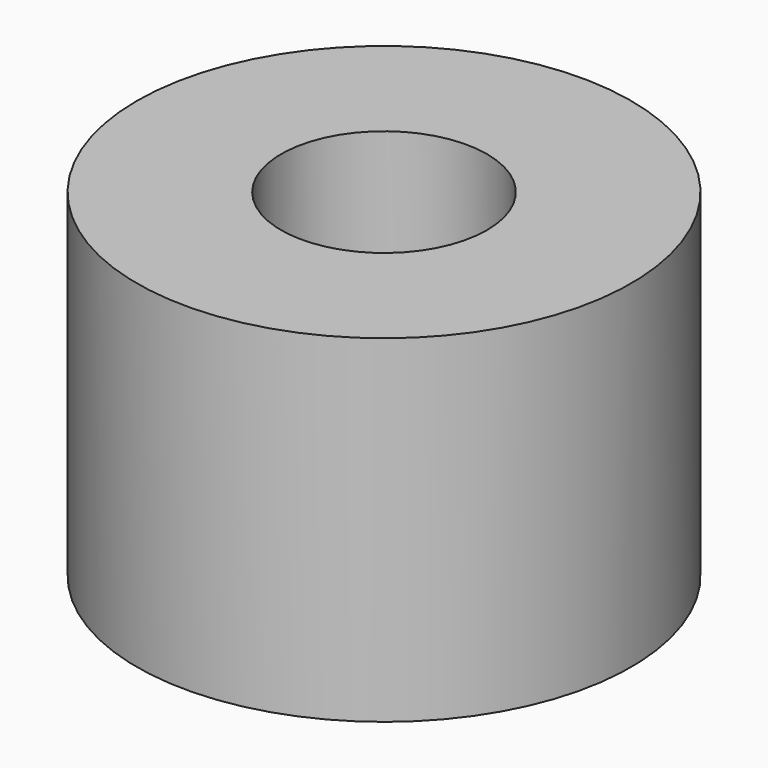
from build123d import *

# Parameters (mm, degrees)
CYLINDER081_R          = 1.25
CYLINDER081_DEPTH      = 5
CYLINDER080_R          = 3
CYLINDER080_DEPTH      = 4.1
CUT041_PLACEMENT_ANGLE = 90


with BuildPart() as b_w018:
    # Cylinder081 → Cylinder081 (new body)
    with BuildSketch(Plane(origin=(2, 6, 26), x_dir=(0, 0, 1), z_dir=(-1, 0, 0))):
        Circle(CYLINDER081_R)
    extrude(amount=CYLINDER081_DEPTH)


with BuildPart() as h_no:
    # Cylinder080 → Cylinder080 (new body)
    with BuildSketch(Plane(origin=(-1, 6, 26), x_dir=(0, 0, -1), z_dir=(1, 0, 0))):
        Circle(CYLINDER080_R)
    extrude(amount=CYLINDER080_DEPTH)

    # Cut041: cut B_W018
    add(b_w018.part, mode=Mode.SUBTRACT)


with BuildPart() as h_no_1:
    # Cut041 placement: moved
    add(h_no.part.moved(Location((46, 29.5, 3))).rotate(Axis((46, 29.5, 3), (0, 1, 0)), CUT041_PLACEMENT_ANGLE))


solid = h_no_1.part
